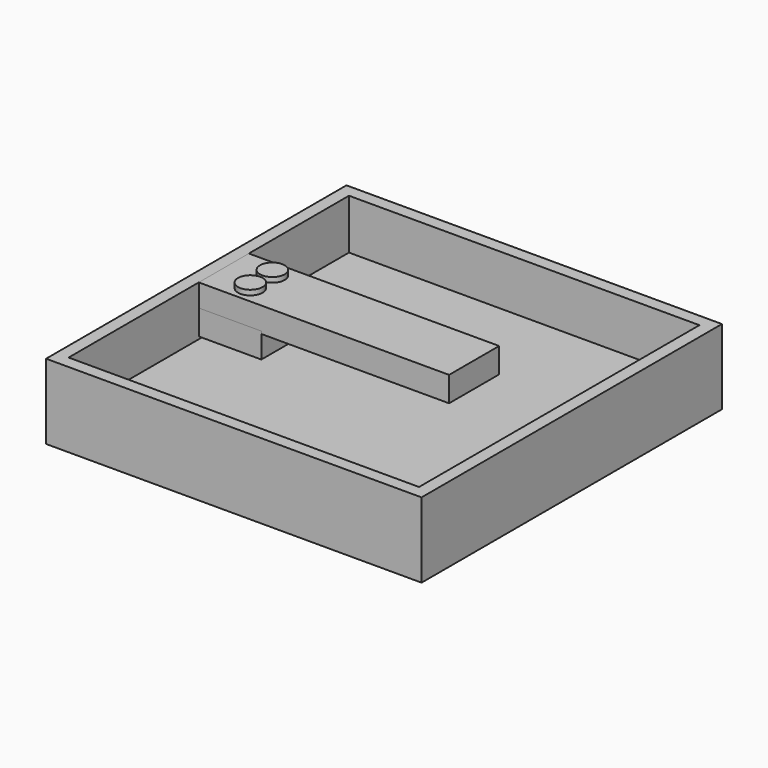
from build123d import *

# Parameters (mm, degrees)
RECTANGLE001_W   = 140
RECTANGLE001_H   = 140
EXTRUDE001_DEPTH = 50
RECTANGLE_W      = 150
RECTANGLE_H      = 150
EXTRUDE_DEPTH    = 30
RECTANGLE002_W   = 100
RECTANGLE002_H   = 25
EXTRUDE002_DEPTH = 10
RECTANGLE003_W   = 25
RECTANGLE003_H   = 25
EXTRUDE003_DEPTH = 10
CIRCLE_R         = 4.918529
EXTRUDE004_DEPTH = 30
EXTRUDE005_DEPTH = 32
CIRCLE001_R      = 4.918529
EXTRUDE006_DEPTH = 32


with BuildPart() as extrude001:
    # Rectangle001 → Extrude001 (new body)
    with BuildSketch(Plane(origin=(5, 5, 10), x_dir=(1, 0, 0), z_dir=(0, 0, 1))):
        with Locations((70, 70)):
            Rectangle(RECTANGLE001_W, RECTANGLE001_H)
    extrude(amount=EXTRUDE001_DEPTH)


with BuildPart() as cut:
    # Rectangle → Extrude (new body)
    with BuildSketch(Plane.XY):
        with Locations((75, 75)):
            Rectangle(RECTANGLE_W, RECTANGLE_H)
    extrude(amount=EXTRUDE_DEPTH)

    # Cut: cut Extrude001
    add(extrude001.part, mode=Mode.SUBTRACT)


with BuildPart() as extrude002:
    # Rectangle002 → Extrude002 (new body)
    with BuildSketch(Plane(origin=(5, 70, 20), x_dir=(1, 0, 0), z_dir=(0, 0, 1))):
        with Locations((50, 12.5)):
            Rectangle(RECTANGLE002_W, RECTANGLE002_H)
    extrude(amount=EXTRUDE002_DEPTH)


with BuildPart() as extrude003:
    # Rectangle003 → Extrude003 (new body)
    with BuildSketch(Plane(origin=(5, 70, 11), x_dir=(1, 0, 0), z_dir=(0, 0, 1))):
        with Locations((12.5, 12.5)):
            Rectangle(RECTANGLE003_W, RECTANGLE003_H)
    extrude(amount=EXTRUDE003_DEPTH)


with BuildPart() as extrude004:
    # Circle → Extrude004 (new body)
    with BuildSketch(Plane(origin=(20, 77, 0), x_dir=(1, 0, 0), z_dir=(0, 0, 1))):
        Circle(CIRCLE_R)
    extrude(amount=EXTRUDE004_DEPTH)


with BuildPart() as extrude005:
    # Circle → Extrude005 (new body)
    with BuildSketch(Plane(origin=(20, 77, 0), x_dir=(1, 0, 0), z_dir=(0, 0, 1))):
        Circle(CIRCLE_R)
    extrude(amount=EXTRUDE005_DEPTH)


with BuildPart() as extrude006:
    # Circle001 → Extrude006 (new body)
    with BuildSketch(Plane(origin=(20, 88, 0), x_dir=(1, 0, 0), z_dir=(0, 0, 1))):
        Circle(CIRCLE001_R)
    extrude(amount=EXTRUDE006_DEPTH)


solid = Compound([cut.part, extrude002.part, extrude003.part, extrude004.part, extrude005.part, extrude006.part])
